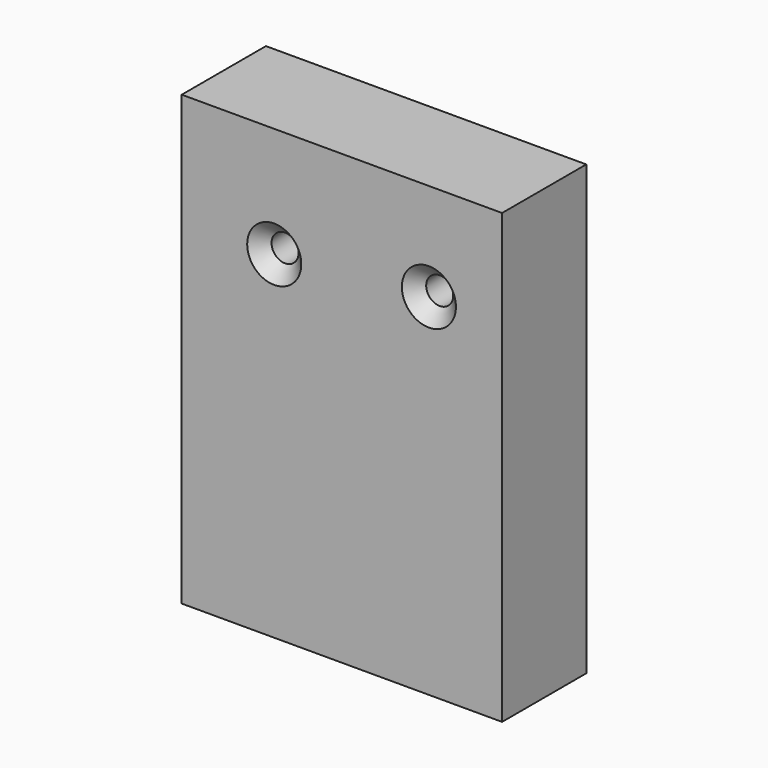
from build123d import *

# Parameters (mm, degrees)
F0_W           = 59.201878
F0_H           = 19.446105
F1_DEPTH       = 82.8
F3_D           = 5
F3_CSINK_D     = 10
F3_CSINK_ANGLE = 90


with BuildPart() as f1:
    # F0 (on Top) → F1 (new body)
    with BuildSketch(Plane.XY):
        with Locations((-5.42395, -1.068737)):
            Rectangle(F0_W, F0_H)
    extrude(amount=F1_DEPTH)

    # F3 (through all)
    with Locations(Plane.XZ.offset(10.79179)):
        with Locations((-17.933313, 62.39697), (10.650878, 64.754866)):
            CounterSinkHole(F3_D / 2, F3_CSINK_D / 2, counter_sink_angle=F3_CSINK_ANGLE)


solid = f1.part
